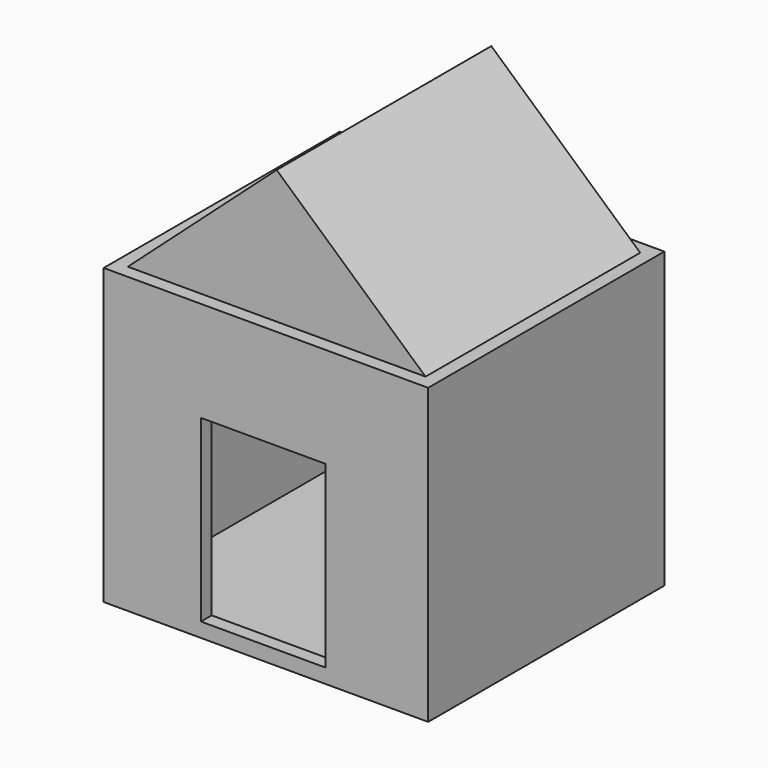
from build123d import *

# Parameters (mm, degrees)
F0_W     = 61.446529
F0_H     = 55.690415
F1_DEPTH = 55.88
F2_T     = -2.54
F3_W     = 23.600073
F3_H     = 33.961079
F4_DEPTH = 25.4
F6_DEPTH = 50.8


with BuildPart() as f1:
    # F0 (on Front) → F1 (new body)
    with BuildSketch(Plane.XZ):
        with Locations((-30.723264, 27.845207)):
            Rectangle(F0_W, F0_H)
    extrude(amount=F1_DEPTH)

    # F2
    f2_openings = [f1.faces().sort_by_distance(p)[0] for p in [
        (-30.723264, -27.94, 55.690415),
    ]]
    offset(amount=F2_T, openings=f2_openings)

    # F3 (on face) → F4 (cut)
    with BuildSketch(Plane.XZ.offset(55.88)):
        with Locations((-31.226924, 19.714695)):
            Rectangle(F3_W, F3_H)
    extrude(amount=-F4_DEPTH, mode=Mode.SUBTRACT)


with BuildPart() as f6:
    # F5 (on face) → F6 (new body)
    with BuildSketch(Plane.XZ.offset(2.54)):
        Polygon((-30.723264, 80.977529), (-58.906529, 55.690415), (-2.54, 55.690415), align=None)
    extrude(amount=F6_DEPTH)


solid = Compound([f1.part, f6.part])
